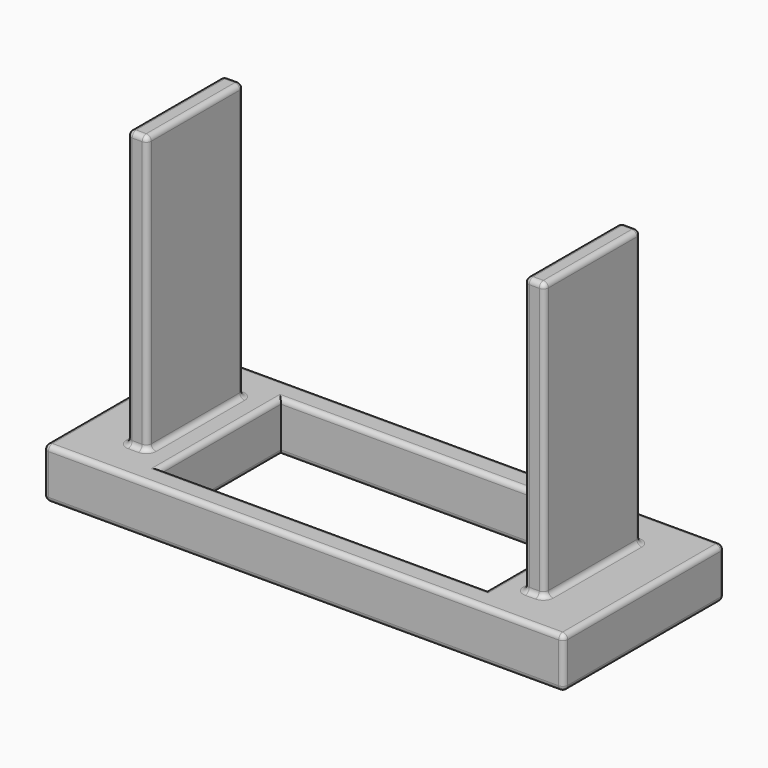
from build123d import *

# Parameters (mm, degrees)
F0_W     = 103.5
F0_H     = 40
F0_W_2   = 4
F0_H_2   = 24
F1_DEPTH = 10
F2_DEPTH = 65
F3_DEPTH = 65
F4_R     = 1


with BuildPart() as f1:
    # F0 (on Top) → F1 (new body)
    with BuildSketch(Plane.XY):
        Rectangle(F0_W, F0_H)
        Polygon((-37.5, 12), (-37.5, 0), (-37.5, -12), (-41.5, -12), (-41.5, 12), align=None, mode=Mode.SUBTRACT)
        Polygon((32.5, -15), (-32.5, -15), (-32.5, 0), (-32.5, 15), (32.5, 15), align=None, mode=Mode.SUBTRACT)
        with Locations((39.5, 0)):
            Rectangle(F0_W_2, F0_H_2, mode=Mode.SUBTRACT)
    extrude(amount=F1_DEPTH)

    # F0 (on Top) → F2 (join)
    with BuildSketch(Plane.XY):
        Polygon((-37.5, -12), (-37.5, 0), (-37.5, 12), (-41.5, 12), (-41.5, -12), align=None)
    extrude(amount=F2_DEPTH)

    # F0 (on Top) → F3 (join)
    with BuildSketch(Plane.XY):
        with Locations((39.5, 0)):
            Rectangle(F0_W_2, F0_H_2)
    extrude(amount=F3_DEPTH)

    # F4
    f4_edges = [f1.edges().sort_by_distance(p)[0] for p in [
        (-51.75, -20, 5),
        (51.75, -20, 5),
        (0, -20, 0),
        (0, -20, 10),
        (51.75, 20, 5),
        (51.75, 0, 0),
        (51.75, 0, 10),
        (0, 20, 10),
        (-51.75, 0, 10),
        (-37.5, 0, 10),
        (-39.5, -12, 10),
        (-41.5, 0, 10),
        (-39.5, 12, 10),
        (0, -15, 10),
        (-32.5, 0, 10),
        (0, 15, 10),
        (32.5, 0, 10),
        (39.5, 12, 10),
        (41.5, 0, 10),
        (39.5, -12, 10),
        (37.5, 0, 10),
        (37.5, 12, 37.5),
        (39.5, 12, 65),
        (41.5, 12, 37.5),
        (41.5, 0, 65),
        (37.5, 0, 65),
        (39.5, -12, 65),
        (-41.5, 12, 37.5),
        (-39.5, 12, 65),
        (-37.5, 12, 37.5),
        (41.5, -12, 37.5),
        (37.5, -12, 37.5),
        (-37.5, 0, 65),
        (-37.5, -12, 37.5),
        (-39.5, -12, 65),
        (-41.5, -12, 37.5),
        (-41.5, 0, 65),
        (0, 20, 0),
        (-51.75, 0, 0),
        (0, -15, 0),
        (-32.5, 0, 0),
        (0, 15, 0),
        (32.5, 0, 0),
    ]]
    fillet(f4_edges, radius=F4_R)


solid = f1.part
